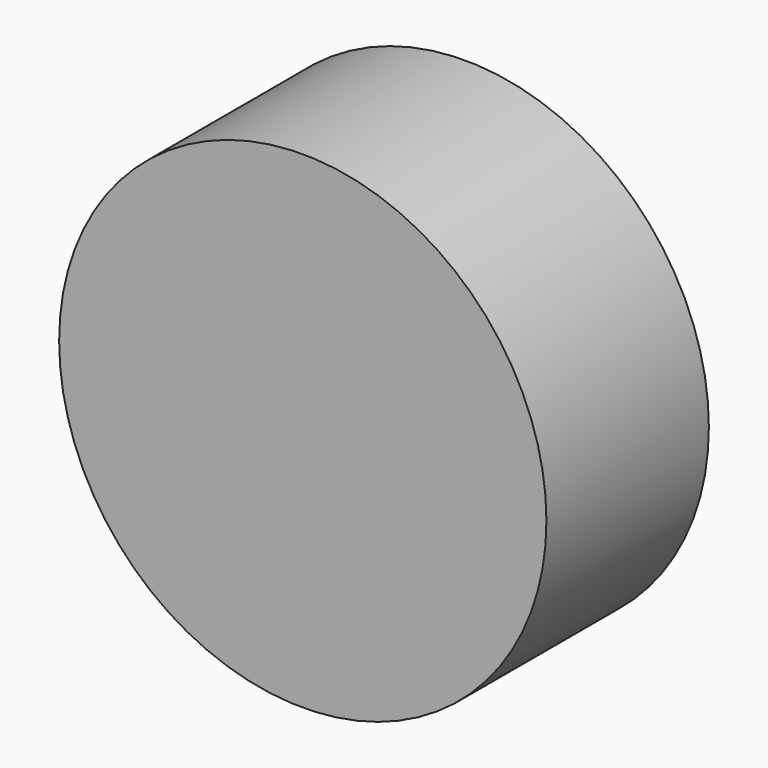
from build123d import *

# Parameters (mm, degrees)
F0_R     = 19.05
F1_DEPTH = 15.875
F2_R     = 9.525
F3_DEPTH = 12.7
F4_DEPTH = 12.7


with BuildPart() as f1:
    # F0 (on Front) → F1 (new body)
    with BuildSketch(Plane.XZ):
        Circle(F0_R)
    extrude(amount=F1_DEPTH)

    # F2 (on Front) → F3 (cut)
    with BuildSketch(Plane.XZ):
        Circle(F2_R)
    extrude(amount=-F3_DEPTH, mode=Mode.SUBTRACT)

    # F2 (on Front) → F4 (cut)
    with BuildSketch(Plane.XZ):
        Circle(F2_R)
    extrude(amount=-F4_DEPTH, mode=Mode.SUBTRACT)


solid = f1.part
